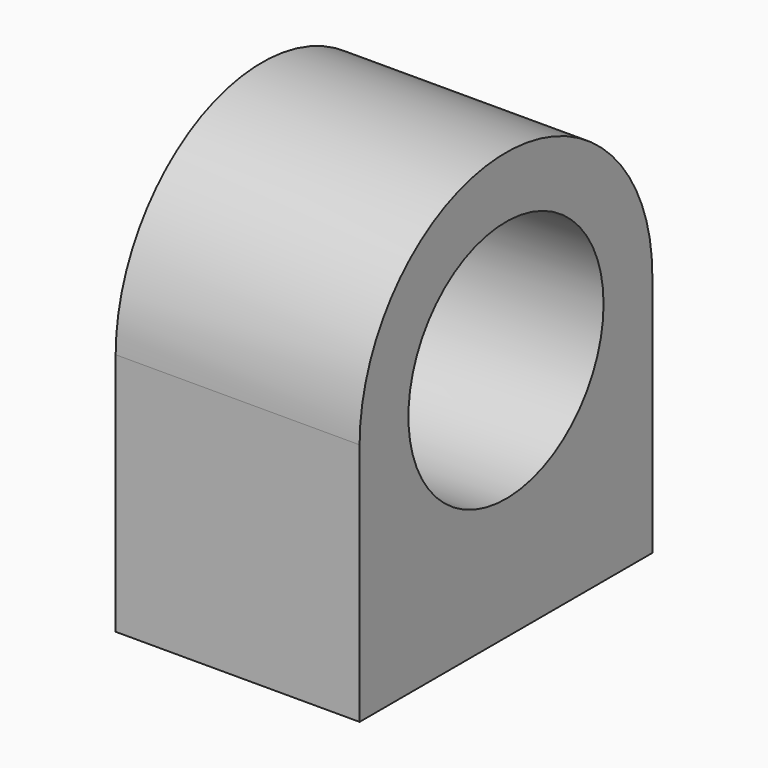
from build123d import *

# Parameters (mm, degrees)
F1_DEPTH = 12.7
F2_R     = 12.7
F3_DEPTH = 25.401
F5_D     = 6.35
F5_DEPTH = 12.7
F5_TIP   = 1.9077324654


with BuildPart() as f1:
    # F0 (on Right) → F1 (new body, symmetric)
    with BuildSketch(Plane.YZ):
        with BuildLine():
            Line((-19.05, 0), (-19.05, -25.4))
            Line((-19.05, -25.4), (19.05, -25.4))
            Line((19.05, -25.4), (19.05, 0))
            ThreePointArc((19.05, 0), (0, 19.05), (-19.05, 0))
        make_face()
    extrude(amount=F1_DEPTH, both=True)

    # F2 (on face) → F3 (cut, through all)
    with BuildSketch(Plane.YZ.offset(12.7)):
        Circle(F2_R)
    extrude(amount=-F3_DEPTH, mode=Mode.SUBTRACT)

    # F5
    with Locations(Plane(origin=(0, 0, -25.4), x_dir=(1, 0, 0), z_dir=(0, 0, -1))):
        with Locations((0, 12.7), (0, -12.7)):
            Hole(F5_D / 2, depth=F5_DEPTH)
            with Locations((0, 0, -(F5_DEPTH + F5_TIP / 2))):  # 118° drill point
                Cone(0, F5_D / 2, F5_TIP, mode=Mode.SUBTRACT)


solid = f1.part
